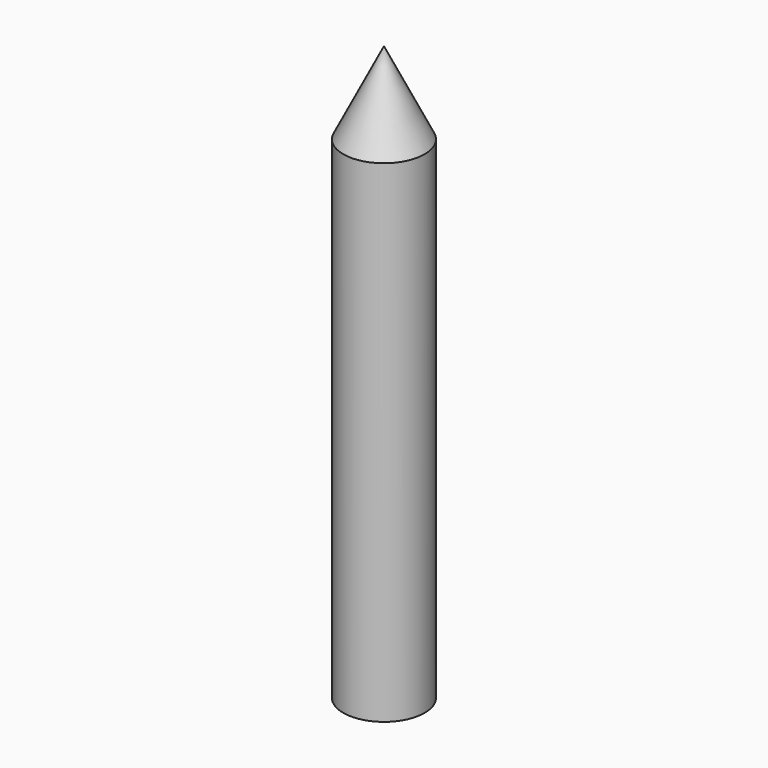
from build123d import *

# Parameters (mm, degrees)
F3_DEPTH = 304.8


with BuildPart() as f2:
    # F1 (on Front) → F2 (revolve)
    with BuildSketch(Plane.XZ):
        Polygon((-25.2132359892, 0), (0, 0), (0, 50.8), align=None)
    revolve(axis=Axis((0, 0, 0), (0, 0, 1)))

    # F3 (add): a face of the model
    f3_faces = [f2.faces().sort_by_distance(p)[0] for p in [
        (0, 0, 0),
    ]]
    extrude(f3_faces, amount=F3_DEPTH)


solid = f2.part
